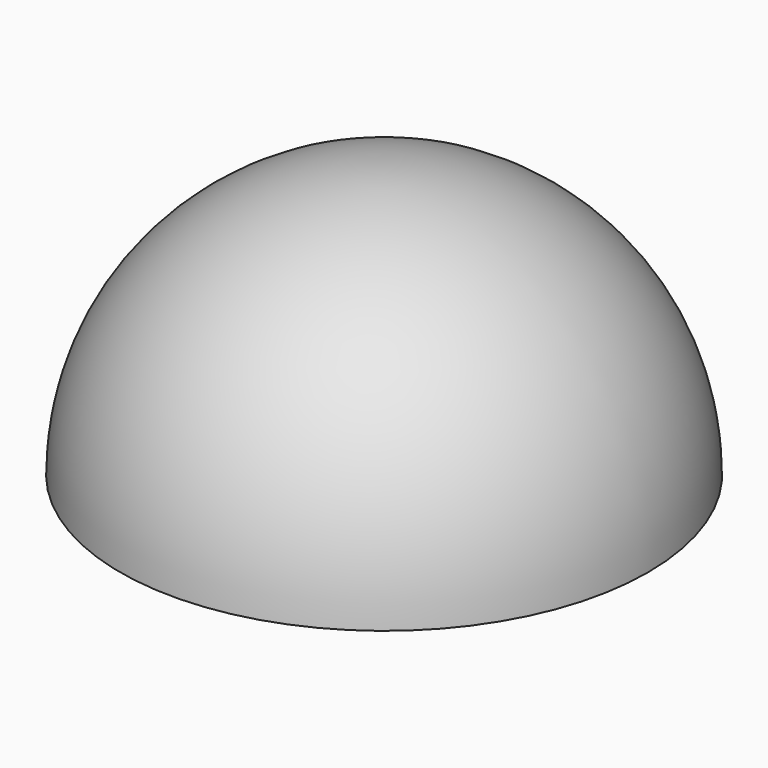
from build123d import *

# Parameters (mm, degrees)
EXTRUDE002_DEPTH = 3
EXTRUDE003_DEPTH = 3
EXTRUDE001_DEPTH = 3
RECTANGLE_W      = 100
RECTANGLE_H      = 100
EXTRUDE_DEPTH    = 50


with BuildPart() as extrude002:
    # Fusion001 → Extrude002 (new body)
    with BuildSketch(Plane(origin=(-45, 30, 0), x_dir=(1, 0, 0), z_dir=(0, 0, 1))):
        Polygon((17.44346, -4.685924), (26.023636, -19.546554), (21.745595, -19.546554), (21.745595, -53.769589), (13.140465, -53.769589), (13.140465, -19.546554), (8.861994, -19.546554), align=None)
    extrude(amount=EXTRUDE002_DEPTH)


with BuildPart() as extrude003:
    # Fusion002 → Extrude003 (new body)
    with BuildSketch(Plane(origin=(11, 30, 0), x_dir=(1, 0, 0), z_dir=(0, 0, 1))):
        Polygon((17.44346, -4.685924), (26.023636, -19.546554), (21.745595, -19.546554), (21.745595, -53.769589), (13.140465, -53.769589), (13.140465, -19.546554), (8.861994, -19.546554), align=None)
    extrude(amount=EXTRUDE003_DEPTH)


with BuildPart() as extrude001:
    # Fusion → Extrude001 (new body)
    with BuildSketch(Plane(origin=(-17, 30, 0), x_dir=(1, 0, 0), z_dir=(0, 0, 1))):
        Polygon((17.44346, -4.685924), (26.023636, -19.546554), (21.745595, -19.546554), (21.745595, -53.769589), (13.140465, -53.769589), (13.140465, -19.546554), (8.861994, -19.546554), align=None)
    extrude(amount=EXTRUDE001_DEPTH)


with BuildPart() as extrude_body:
    # Rectangle → Extrude (new body)
    with BuildSketch(Plane(origin=(-50, 50, 0), x_dir=(1, 0, 0), z_dir=(0, 0, 1))):
        with Locations((50, -50)):
            Rectangle(RECTANGLE_W, RECTANGLE_H)
    extrude(amount=-EXTRUDE_DEPTH)


with BuildPart() as obj1:
    # Sphere → Sphere (revolve)
    with BuildSketch(Plane.XZ):
        with BuildLine():
            ThreePointArc((0, -50), (50, 0), (0, 50))
            Line((0, 50), (0, -50))
        make_face()
    revolve(axis=Axis((0, 0, 0), (0, 0, 1)))

    # Cut: cut Extrude body
    add(extrude_body.part, mode=Mode.SUBTRACT)

    # Cut002: cut Extrude001
    add(extrude001.part, mode=Mode.SUBTRACT)

    # Cut003: cut Extrude003
    add(extrude003.part, mode=Mode.SUBTRACT)

    # Cut004: cut Extrude002
    add(extrude002.part, mode=Mode.SUBTRACT)


solid = obj1.part
